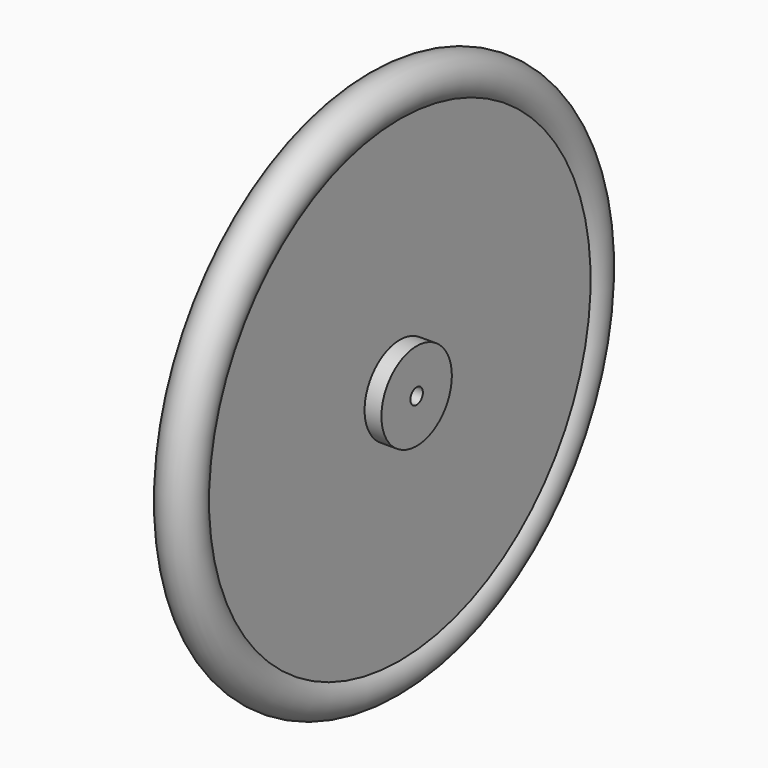
from build123d import *

# Parameters (mm, degrees)
F2_R     = 6
F3_DEPTH = 25
F4_R     = 33.7409795254
F4_R_2   = 6
F5_DEPTH = 25


with BuildPart() as f1:
    # F0 (on Front) → F1 (revolve)
    with BuildSketch(Plane.XZ):
        with BuildLine():
            Line((12.1142669689, 0), (12.1142669689, 182.7975656304))
            ThreePointArc((12.1142669689, 182.7975656304), (0, 210.5), (-12.1142669689, 182.7975656304))
            Line((-12.1142669689, 182.7975656304), (-12.1142669689, 0))
            Line((-12.1142669689, 0), (12.1142669689, 0))
        make_face()
    revolve(axis=Axis((0, 0, 0), (1, 0, 0)))

    # F2 (on face) → F3 (cut)
    with BuildSketch(Plane.YZ.offset(12.1142669689)):
        Circle(F2_R)
    extrude(amount=-F3_DEPTH, mode=Mode.SUBTRACT)

    # F4 (on Right) → F5 (join, symmetric)
    with BuildSketch(Plane.YZ):
        Circle(F4_R)
        Circle(F4_R_2, mode=Mode.SUBTRACT)
    extrude(amount=F5_DEPTH, both=True)


solid = f1.part
